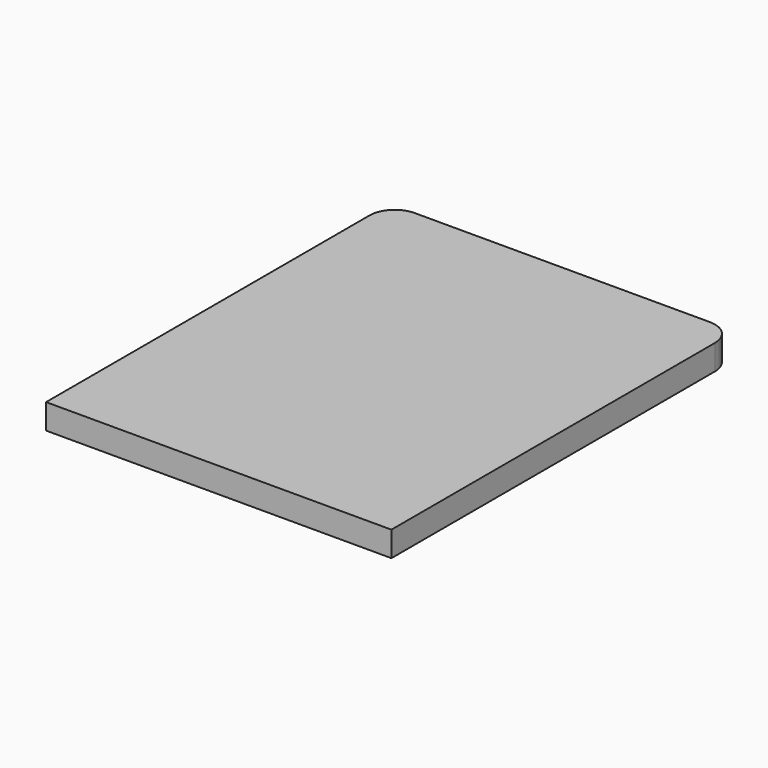
from build123d import *

# Parameters (mm, degrees)
F3_DEPTH = 20


with BuildPart() as f3:
    # F2 (on Top) → F3 (new body)
    with BuildSketch(Plane.XY):
        with BuildLine():
            ThreePointArc((137.5, 597.0087094104), (131.4319166148, 611.3579846338), (116.9098300562, 617))
            Line((116.9098300562, 617), (-116.9098300563, 617))
            ThreePointArc((-116.9098300563, 617), (-131.4319166148, 611.3579846338), (-137.5, 597.0087094104))
            Line((-137.5, 597.0087094104), (-137.5, 457))
            Line((-137.5, 457), (-137.5, 275.0000000292))
            Line((-137.5, 275.0000000292), (137.5, 275.0000000292))
            Line((137.5, 275.0000000292), (137.5, 457))
            Line((137.5, 457), (137.5, 597.0087094104))
        make_face()
    extrude(amount=F3_DEPTH)


solid = f3.part
